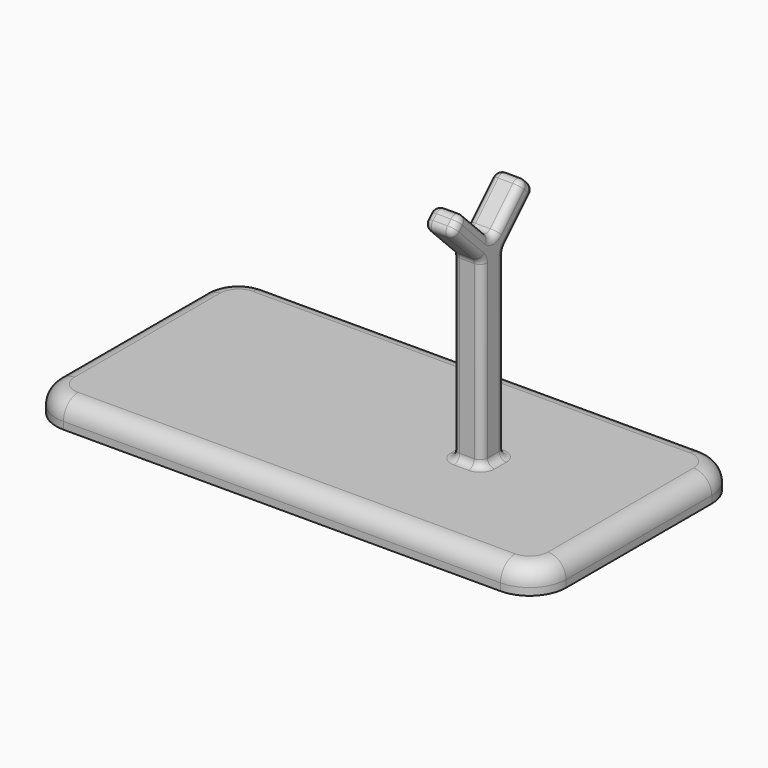
from build123d import *

# Parameters (mm, degrees)
F0_W     = 140
F0_H     = 70
F1_DEPTH = 7
F2_W     = 8
F2_H     = 8
F3_DEPTH = 50
F5_DEPTH = 8
F6_R     = 10
F7_R     = 5
F9_R     = 2


with BuildPart() as f1:
    # F0 (on Top) → F1 (new body)
    with BuildSketch(Plane.XY):
        Rectangle(F0_W, F0_H)
    extrude(amount=F1_DEPTH)

    # F2 (on face) → F3 (join)
    with BuildSketch(Plane.XY.offset(7)):
        with Locations((26, 0)):
            Rectangle(F2_W, F2_H)
    extrude(amount=F3_DEPTH)

    # F6
    f6_edges = [f1.edges().sort_by_distance(p)[0] for p in [
        (-70, 35, 3.5),
        (-70, -35, 3.5),
        (70, 35, 3.5),
        (70, -35, 3.5),
    ]]
    fillet(f6_edges, radius=F6_R)

    # F7
    f7_edges = [f1.edges().sort_by_distance(p)[0] for p in [
        (0, -35, 7),
        (70, 0, 7),
        (0, 35, 7),
        (-70, 0, 7),
    ]]
    fillet(f7_edges, radius=F7_R)


with BuildPart() as f5:
    # F4 (on face) → F5 (new body)
    with BuildSketch(Plane.YZ.offset(30)):
        Polygon((-14.606602, 67.606602), (-4, 57), (4, 57), (14.606602, 67.606602), (10.606602, 71.606602), (0, 61), (-10.606602, 71.606602), align=None)
    extrude(amount=-F5_DEPTH)


with BuildPart() as f1_1:
    add(f1.part)

    # F8: union F5
    add(f5.part)

    # F9
    f9_edges = [f1_1.edges().sort_by_distance(p)[0] for p in [
        (30, 9.303301, 62.303301),
        (30, 4, 32),
        (30, 5.303301, 66.303301),
        (30, -5.303301, 66.303301),
        (30, -9.303301, 62.303301),
        (30, -4, 32),
        (26, 10.606602, 71.606602),
        (26, -10.606602, 71.606602),
        (26, 0, 61),
        (26, 14.606602, 67.606602),
        (30, -12.606602, 69.606602),
        (30, 12.606602, 69.606602),
        (22, 12.606602, 69.606602),
        (22, -5.303301, 66.303301),
        (26, -4, 57),
        (26, -4, 7),
        (22, -4, 32),
        (22, -9.303301, 62.303301),
        (26, -14.606602, 67.606602),
        (22, -12.606602, 69.606602),
        (22, 5.303301, 66.303301),
        (22, 9.303301, 62.303301),
        (22, 4, 32),
        (26, 4, 57),
        (26, 4, 7),
        (22, 0, 7),
        (30, 0, 7),
    ]]
    fillet(f9_edges, radius=F9_R)


solid = f1_1.part
